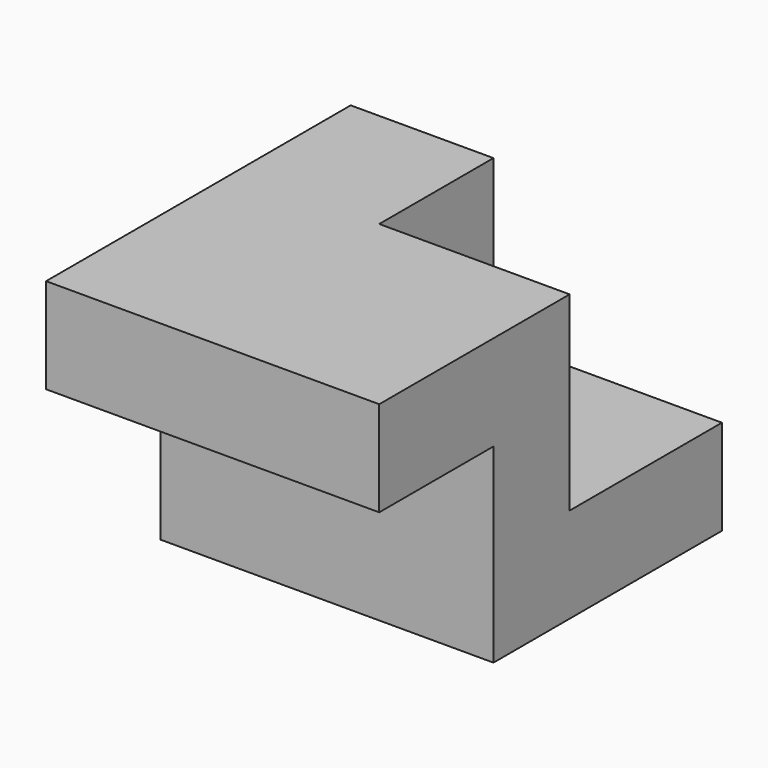
from build123d import *

# Parameters (mm, degrees)
F1_DEPTH = 88.9
F2_W     = 38.1
F2_H     = 50.8
F3_DEPTH = 38.1


with BuildPart() as f1:
    # F0 (on Right) → F1 (new body)
    with BuildSketch(Plane.YZ):
        Polygon((-10.972409, 35.849495), (-74.472409, 35.849495), (-74.472409, 10.449495), (-36.372409, 10.449495), (-36.372409, -40.350505), (39.827591, -40.350505), (39.827591, -14.950505), (-10.972409, -14.950505), align=None)
    extrude(amount=-F1_DEPTH)

    # F2 (on face) → F3 (join)
    with BuildSketch(Plane(origin=(-88.9, 0, 0), x_dir=(0, -1, 0), z_dir=(-1, 0, 0))):
        with Locations((-8.077591, 10.449495)):
            Rectangle(F2_W, F2_H)
    extrude(amount=-F3_DEPTH)


solid = f1.part
